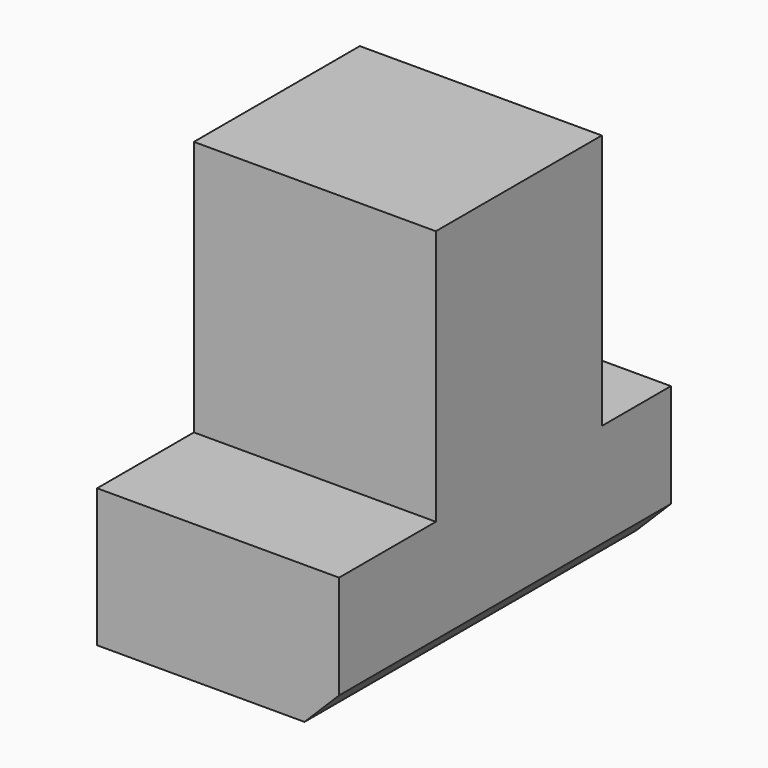
from build123d import *

# Parameters (mm, degrees)
BOX046_W                     = 6
BOX046_H                     = 7
BOX046_DEPTH                 = 7.4
BOX045_W                     = 7
BOX045_H                     = 12
BOX045_DEPTH                 = 4
CHAMFER_SIZE                 = 1
CHAMFER_PLACEMENT_ANGLE      = 90
FUSION002026_PLACEMENT_ANGLE = 90


with BuildPart() as cubo046:
    # Box046 → Box046 (new body)
    with BuildSketch(Plane(origin=(-13, -15, 2.5), x_dir=(1, 0, 0), z_dir=(0, 0, 1))):
        with Locations((3, 3.5)):
            Rectangle(BOX046_W, BOX046_H)
    extrude(amount=BOX046_DEPTH)


with BuildPart() as fusion002026:
    # Box045 → Box045 (new body)
    with BuildSketch(Plane(origin=(-13, -7, 2), x_dir=(1, 0, 0), z_dir=(0, 0, -1))):
        with Locations((3.5, 6)):
            Rectangle(BOX045_W, BOX045_H)
    extrude(amount=BOX045_DEPTH)

    # Chamfer
    chamfer_edges = [fusion002026.edges().sort_by_distance(p)[0] for p in [
        (-13, -13, -2),
    ]]
    chamfer(chamfer_edges, length=CHAMFER_SIZE)


with BuildPart() as fusion002026_1:
    # Chamfer placement: moved
    add(fusion002026.part.moved(Location((-23.5, -2, 0.5))).rotate(Axis((-23.5, -2, 0.5), (0, 0, 1)), CHAMFER_PLACEMENT_ANGLE))

    # Fusion002026: union Cubo046
    add(cubo046.part)


with BuildPart() as fusion002026_2:
    # Fusion002026 placement: moved
    add(fusion002026_1.part.moved(Location((-44, 70, 34.3))).rotate(Axis((-44, 70, 34.3), (0, 0, 1)), FUSION002026_PLACEMENT_ANGLE))


solid = fusion002026_2.part
